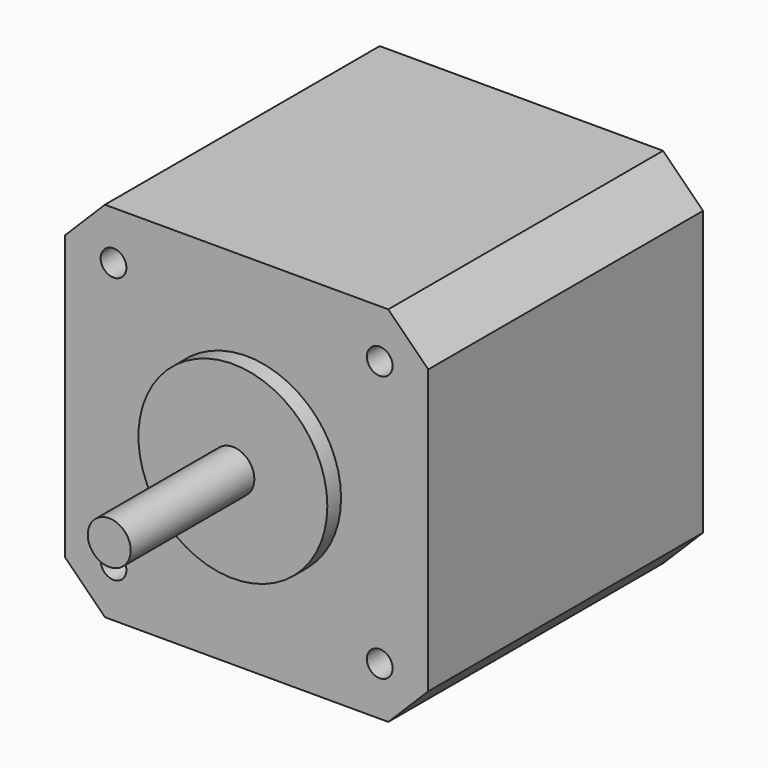
from build123d import *

# Parameters (mm, degrees)
F0_R     = 1.5
F0_R_2   = 11
F1_DEPTH = 40
F0_R_3   = 2.5
F2_DEPTH = 42
F3_DEPTH = 60
F4_DEPTH = 35


with BuildPart() as f1:
    # F0 (on Front) → F1 (new body)
    with BuildSketch(Plane.XZ):
        Polygon((-16.5, -21.15), (16.5, -21.15), (21.15, -16.5), (21.15, 16.5), (16.5, 21.15), (-16.5, 21.15), (-21.15, 16.5), (-21.15, -16.5), align=None)
        with Locations((-15.5, -15.5)):
            Circle(F0_R, mode=Mode.SUBTRACT)
        with Locations((15.5, -15.5)):
            Circle(F0_R, mode=Mode.SUBTRACT)
        with Locations((-15.5, 15.5)):
            Circle(F0_R, mode=Mode.SUBTRACT)
        Circle(F0_R_2, mode=Mode.SUBTRACT)
        with Locations((15.5, 15.5)):
            Circle(F0_R, mode=Mode.SUBTRACT)
    extrude(amount=F1_DEPTH)

    # F0 (on Front) → F2 (join)
    with BuildSketch(Plane.XZ):
        Circle(F0_R_2)
        Circle(F0_R_3, mode=Mode.SUBTRACT)
    extrude(amount=F2_DEPTH)

    # F0 (on Front) → F3 (join)
    with BuildSketch(Plane.XZ):
        Circle(F0_R_3)
    extrude(amount=F3_DEPTH)

    # F0 (on Front) → F4 (join)
    with BuildSketch(Plane.XZ):
        with Locations((15.5, 15.5)):
            Circle(F0_R)
        with Locations((-15.5, 15.5)):
            Circle(F0_R)
        with Locations((-15.5, -15.5)):
            Circle(F0_R)
        with Locations((15.5, -15.5)):
            Circle(F0_R)
    extrude(amount=F4_DEPTH)


solid = f1.part
